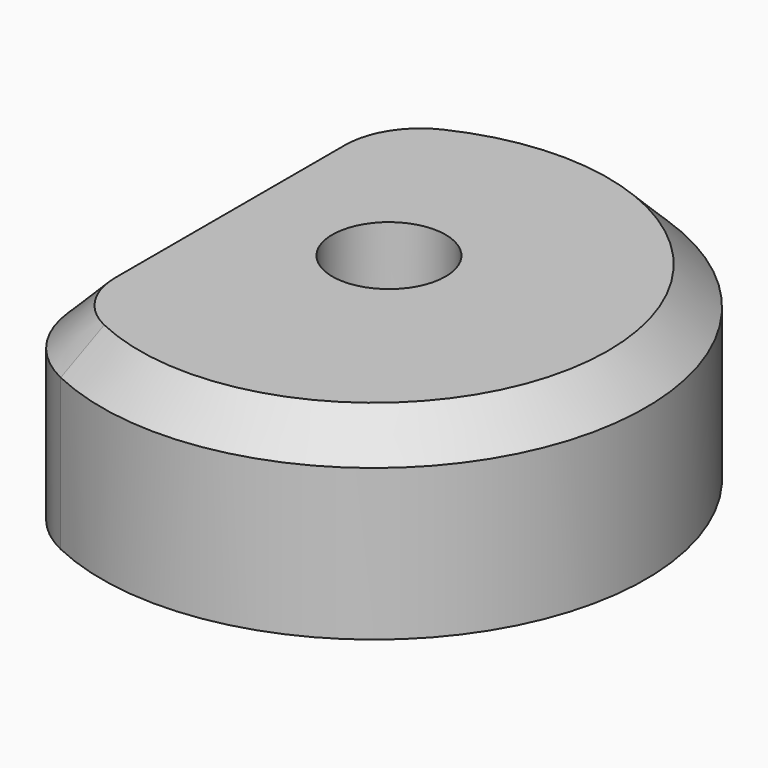
from build123d import *

# Parameters (mm, degrees)
F0_R     = 1.5
F1_DEPTH = 5
F2_SIZE  = 1


with BuildPart() as f1:
    # F0 (on Top) → F1 (new body)
    with BuildSketch(Plane.XY):
        with BuildLine():
            ThreePointArc((-4.8, -4.294733), (-4.335463, -5.898301), (-3.085714, -7.005257))
            ThreePointArc((-3.085714, -7.005257), (7.2, -0.5), (-3.085714, 6.005257))
            ThreePointArc((-3.085714, 6.005257), (-4.335463, 4.898301), (-4.8, 3.294733))
            Line((-4.8, 3.294733), (-4.8, -4.294733))
        make_face()
        Circle(F0_R, mode=Mode.SUBTRACT)
    extrude(amount=F1_DEPTH)

    # F2
    f2_edges = [f1.edges().sort_by_distance(p)[0] for p in [
        (7.2, -0.5, 5),
    ]]
    chamfer(f2_edges, length=F2_SIZE)


solid = f1.part
